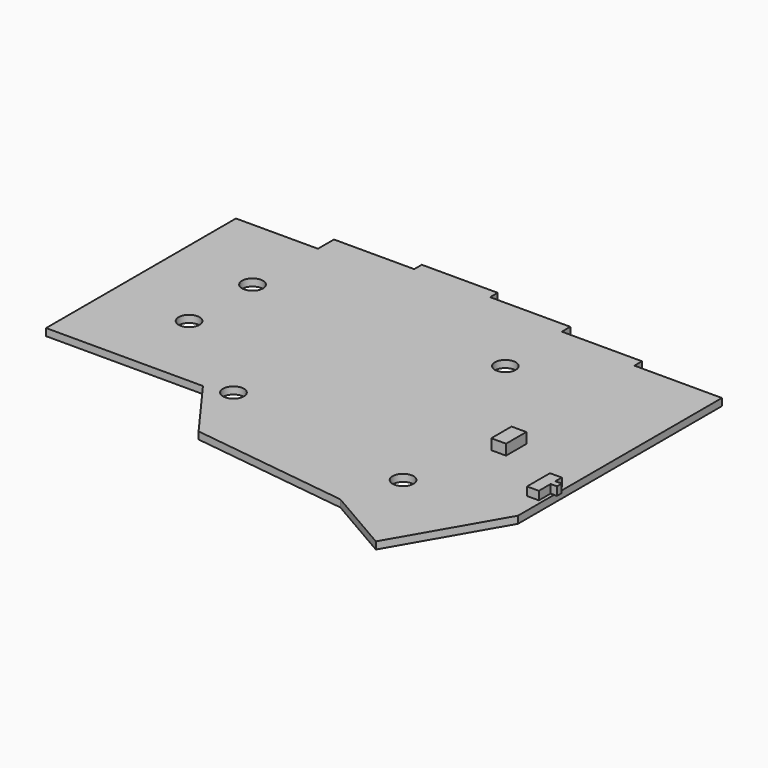
from build123d import *

# Parameters (mm, degrees)
PAD011_DEPTH    = 1.7
SKETCH021_R     = 2.475826
SKETCH021_R_2   = 2.481394
SKETCH021_R_3   = 2.464202
SKETCH021_R_4   = 2.48
POCKET021_DEPTH = 2
SKETCH022_W     = 1.6
SKETCH022_H     = 2.6
PAD012_DEPTH    = 1.1
SKETCH025_W     = 3.5
SKETCH025_H     = 6
PAD014_DEPTH    = 2.5
PAD015_DEPTH    = 2


with BuildPart() as part:
    # MirroredSketch016 → Pad011 (new body)
    with BuildSketch(Plane.XY):
        Polygon((18.615471, 0), (55.795471, 0), (66.524073, -14.707193), (104.028226, -19.584789), (119.695382, -28.648464), (133.795471, -4.157341), (133.795471, 56.252659), (113.045471, 56.252659), (113.045471, 58.502659), (94.055471, 58.502659), (94.055471, 61.002659), (75.055471, 61.002659), (75.055471, 63.252659), (57.055471, 63.252659), (57.055471, 61.002659), (38.045471, 61.002659), (38.045471, 56.25), (18.615471, 56.25), align=None)
    extrude(amount=PAD011_DEPTH)

    # Sketch021 → Pocket021 (cut)
    with BuildSketch(Plane.XY):
        with Locations((61.841369, 1.48161)):
            Circle(SKETCH021_R)
        with Locations((108.248942, -6.275442)):
            Circle(SKETCH021_R_2)
        with Locations((94.502421, 41.204275)):
            Circle(SKETCH021_R_3)
        with Locations((37.563327, 37.48)):
            Circle(SKETCH021_R_4)
        with Locations((37.51863, 18.740053)):
            Circle(SKETCH021_R_4)
    extrude(amount=POCKET021_DEPTH, mode=Mode.SUBTRACT)

    # Sketch022 → Pad012 (join)
    with BuildSketch(Plane.XY.offset(-1.1)):
        with Locations((48.005105, 34.081744)):
            Rectangle(SKETCH022_W, SKETCH022_H)
    extrude(amount=PAD012_DEPTH)

    # Sketch025 → Pad014 (join)
    with BuildSketch(Plane(origin=(-22, 35, 1.7), x_dir=(1, 0, 0), z_dir=(0, 0, 1))):
        with Locations((137.295471, -18.767341)):
            Rectangle(SKETCH025_W, SKETCH025_H)
    extrude(amount=PAD014_DEPTH)

    # Sketch026 → Pad015 (join)
    with BuildSketch(Plane.XY.offset(1.7)):
        Polygon((132.98, 3.032659), (130.18, 3.032659), (130.18, 9.832659), (132.98, 9.832659), (132.98, 7.932659), (134.48, 7.932659), (134.48, 6.532659), (132.98, 6.532659), align=None)
    extrude(amount=PAD015_DEPTH)


with BuildPart() as part_1:
    # Body009 placement: moved
    add(part.part.moved(Location((0, 0, 3.3))))


solid = part_1.part
